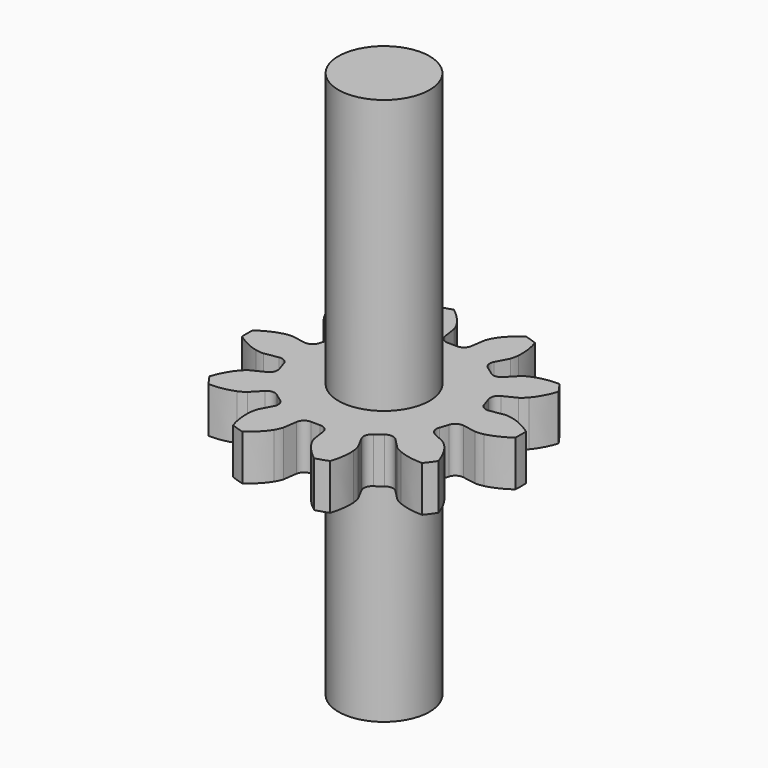
from build123d import *

# Parameters (mm, degrees)
PAD_DEPTH    = 5
SKETCH001_R  = 5
POCKET_DEPTH = 5.001
SKETCH004_R  = 5
PAD004_DEPTH = 30


with BuildPart() as part:
    # InvoluteGear → Pad (new body)
    with BuildSketch(Plane.XY):
        with BuildLine():
            Line((10.118289, -1.757547), (11.611639, -2.014738))
            add(Edge.make_bspline(
                [(11.611639, -2.014738), (11.711845, -2.023895), (12.012347, -2.035437), (12.520038, -1.918498)],
                knots=[0, 0, 0, 0, 1, 1, 1, 1], degree=3))
            add(Edge.make_bspline(
                [(12.520038, -1.918498), (13.122813, -1.775221), (13.976836, -1.451488), (14.985932, -0.73261)],
                knots=[0, 0, 0, 0, 1, 1, 1, 1], degree=3))
            ThreePointArc((14.985932, -0.73261), (15.003833, 0), (14.985932, 0.73261))
            add(Edge.make_bspline(
                [(14.985932, 0.73261), (13.976836, 1.451488), (13.122813, 1.775221), (12.520038, 1.918498)],
                knots=[0, 0, 0, 0, 1, 1, 1, 1], degree=3))
            add(Edge.make_bspline(
                [(12.520038, 1.918498), (12.012347, 2.035437), (11.711845, 2.023895), (11.611639, 2.014738)],
                knots=[0, 0, 0, 0, 1, 1, 1, 1], degree=3))
            Line((11.611639, 2.014738), (10.118289, 1.757547))
            ThreePointArc((10.118289, 1.757547), (9.455083, 1.889924), (9.053502, 2.434075))
            ThreePointArc((9.053502, 2.434075), (8.916155, 2.897034), (8.755151, 3.352307))
            ThreePointArc((8.755151, 3.352307), (8.760192, 4.028577), (9.218928, 4.525496))
            Line((9.218928, 4.525496), (10.578247, 5.195193))
            add(Edge.make_bspline(
                [(10.578247, 5.195193), (10.664697, 5.246684), (10.914593, 5.413978), (11.256588, 5.806997)],
                knots=[0, 0, 0, 0, 1, 1, 1, 1], degree=3))
            add(Edge.make_bspline(
                [(11.256588, 5.806997), (11.660028, 6.277212), (12.160661, 7.041099), (12.554491, 8.215816)],
                knots=[0, 0, 0, 0, 1, 1, 1, 1], degree=3))
            ThreePointArc((12.554491, 8.215816), (12.138356, 8.819032), (11.693256, 9.401204))
            add(Edge.make_bspline(
                [(11.693256, 9.401204), (10.454334, 9.389657), (9.57313, 9.14958), (9.001259, 8.911191)],
                knots=[0, 0, 0, 0, 1, 1, 1, 1], degree=3))
            add(Edge.make_bspline(
                [(9.001259, 8.911191), (8.521793, 8.707384), (8.285466, 8.521415), (8.209781, 8.455107)],
                knots=[0, 0, 0, 0, 1, 1, 1, 1], degree=3))
            Line((8.209781, 8.455107), (7.152808, 7.369267))
            ThreePointArc((7.152808, 7.369267), (6.538453, 7.086539), (5.893724, 7.290723))
            ThreePointArc((5.893724, 7.290723), (5.510487, 7.584534), (5.112629, 7.858222))
            ThreePointArc((5.112629, 7.858222), (4.719206, 8.408299), (4.79825, 9.079953))
            Line((4.79825, 9.079953), (5.504323, 10.420737))
            add(Edge.make_bspline(
                [(5.504323, 10.420737), (5.543998, 10.513208), (5.647835, 10.795437), (5.693504, 11.314416)],
                knots=[0, 0, 0, 0, 1, 1, 1, 1], degree=3))
            add(Edge.make_bspline(
                [(5.693504, 11.314416), (5.743508, 11.931963), (5.699527, 12.844226), (5.327661, 14.026079)],
                knots=[0, 0, 0, 0, 1, 1, 1, 1], degree=3))
            ThreePointArc((5.327661, 14.026079), (4.636439, 14.269493), (3.934154, 14.478857))
            add(Edge.make_bspline(
                [(3.934154, 14.478857), (2.938633, 13.741295), (2.366837, 13.02911), (2.044305, 12.500112)],
                knots=[0, 0, 0, 0, 1, 1, 1, 1], degree=3))
            add(Edge.make_bspline(
                [(2.044305, 12.500112), (1.776204, 12.053406), (1.694321, 11.764044), (1.672065, 11.665914)],
                knots=[0, 0, 0, 0, 1, 1, 1, 1], degree=3))
            Line((1.672065, 11.665914), (1.455197, 10.166177))
            ThreePointArc((1.455197, 10.166177), (1.124356, 9.576337), (0.482743, 9.362563))
            ThreePointArc((0.482743, 9.362563), (0, 9.375), (-0.482743, 9.362563))
            ThreePointArc((-0.482743, 9.362563), (-1.124356, 9.576337), (-1.455197, 10.166177))
            Line((-1.455197, 10.166177), (-1.672065, 11.665914))
            add(Edge.make_bspline(
                [(-1.672065, 11.665914), (-1.694321, 11.764044), (-1.776204, 12.053406), (-2.044305, 12.500112)],
                knots=[0, 0, 0, 0, 1, 1, 1, 1], degree=3))
            add(Edge.make_bspline(
                [(-2.044305, 12.500112), (-2.366837, 13.02911), (-2.938633, 13.741295), (-3.934154, 14.478857)],
                knots=[0, 0, 0, 0, 1, 1, 1, 1], degree=3))
            ThreePointArc((-3.934154, 14.478857), (-4.636439, 14.269493), (-5.327661, 14.026079))
            add(Edge.make_bspline(
                [(-5.327661, 14.026079), (-5.699527, 12.844226), (-5.743508, 11.931963), (-5.693504, 11.314416)],
                knots=[0, 0, 0, 0, 1, 1, 1, 1], degree=3))
            add(Edge.make_bspline(
                [(-5.693504, 11.314416), (-5.647835, 10.795437), (-5.543998, 10.513208), (-5.504323, 10.420737)],
                knots=[0, 0, 0, 0, 1, 1, 1, 1], degree=3))
            Line((-5.504323, 10.420737), (-4.79825, 9.079953))
            ThreePointArc((-4.79825, 9.079953), (-4.719206, 8.408299), (-5.112629, 7.858222))
            ThreePointArc((-5.112629, 7.858222), (-5.510487, 7.584534), (-5.893724, 7.290723))
            ThreePointArc((-5.893724, 7.290723), (-6.538453, 7.086539), (-7.152808, 7.369267))
            Line((-7.152808, 7.369267), (-8.209781, 8.455107))
            add(Edge.make_bspline(
                [(-8.209781, 8.455107), (-8.285466, 8.521415), (-8.521793, 8.707384), (-9.001259, 8.911191)],
                knots=[0, 0, 0, 0, 1, 1, 1, 1], degree=3))
            add(Edge.make_bspline(
                [(-9.001259, 8.911191), (-9.57313, 9.14958), (-10.454334, 9.389657), (-11.693256, 9.401204)],
                knots=[0, 0, 0, 0, 1, 1, 1, 1], degree=3))
            ThreePointArc((-11.693256, 9.401204), (-12.138356, 8.819032), (-12.554491, 8.215816))
            add(Edge.make_bspline(
                [(-12.554491, 8.215816), (-12.160661, 7.041099), (-11.660028, 6.277212), (-11.256588, 5.806997)],
                knots=[0, 0, 0, 0, 1, 1, 1, 1], degree=3))
            add(Edge.make_bspline(
                [(-11.256588, 5.806997), (-10.914593, 5.413978), (-10.664697, 5.246684), (-10.578247, 5.195193)],
                knots=[0, 0, 0, 0, 1, 1, 1, 1], degree=3))
            Line((-10.578247, 5.195193), (-9.218928, 4.525496))
            ThreePointArc((-9.218928, 4.525496), (-8.760192, 4.028577), (-8.755151, 3.352307))
            ThreePointArc((-8.755151, 3.352307), (-8.916155, 2.897034), (-9.053502, 2.434075))
            ThreePointArc((-9.053502, 2.434075), (-9.455083, 1.889924), (-10.118289, 1.757547))
            Line((-10.118289, 1.757547), (-11.611639, 2.014738))
            add(Edge.make_bspline(
                [(-11.611639, 2.014738), (-11.711845, 2.023895), (-12.012347, 2.035437), (-12.520038, 1.918498)],
                knots=[0, 0, 0, 0, 1, 1, 1, 1], degree=3))
            add(Edge.make_bspline(
                [(-12.520038, 1.918498), (-13.122813, 1.775221), (-13.976836, 1.451488), (-14.985932, 0.73261)],
                knots=[0, 0, 0, 0, 1, 1, 1, 1], degree=3))
            ThreePointArc((-14.985932, 0.73261), (-15.003833, 0), (-14.985932, -0.73261))
            add(Edge.make_bspline(
                [(-14.985932, -0.73261), (-13.976836, -1.451488), (-13.122813, -1.775221), (-12.520038, -1.918498)],
                knots=[0, 0, 0, 0, 1, 1, 1, 1], degree=3))
            add(Edge.make_bspline(
                [(-12.520038, -1.918498), (-12.012347, -2.035437), (-11.711845, -2.023895), (-11.611639, -2.014738)],
                knots=[0, 0, 0, 0, 1, 1, 1, 1], degree=3))
            Line((-11.611639, -2.014738), (-10.118289, -1.757547))
            ThreePointArc((-10.118289, -1.757547), (-9.455083, -1.889924), (-9.053502, -2.434075))
            ThreePointArc((-9.053502, -2.434075), (-8.916155, -2.897034), (-8.755151, -3.352307))
            ThreePointArc((-8.755151, -3.352307), (-8.760192, -4.028577), (-9.218928, -4.525496))
            Line((-9.218928, -4.525496), (-10.578247, -5.195193))
            add(Edge.make_bspline(
                [(-10.578247, -5.195193), (-10.664697, -5.246684), (-10.914593, -5.413978), (-11.256588, -5.806997)],
                knots=[0, 0, 0, 0, 1, 1, 1, 1], degree=3))
            add(Edge.make_bspline(
                [(-11.256588, -5.806997), (-11.660028, -6.277212), (-12.160661, -7.041099), (-12.554491, -8.215816)],
                knots=[0, 0, 0, 0, 1, 1, 1, 1], degree=3))
            ThreePointArc((-12.554491, -8.215816), (-12.138356, -8.819032), (-11.693256, -9.401204))
            add(Edge.make_bspline(
                [(-11.693256, -9.401204), (-10.454334, -9.389657), (-9.57313, -9.14958), (-9.001259, -8.911191)],
                knots=[0, 0, 0, 0, 1, 1, 1, 1], degree=3))
            add(Edge.make_bspline(
                [(-9.001259, -8.911191), (-8.521793, -8.707384), (-8.285466, -8.521415), (-8.209781, -8.455107)],
                knots=[0, 0, 0, 0, 1, 1, 1, 1], degree=3))
            Line((-8.209781, -8.455107), (-7.152808, -7.369267))
            ThreePointArc((-7.152808, -7.369267), (-6.538453, -7.086539), (-5.893724, -7.290723))
            ThreePointArc((-5.893724, -7.290723), (-5.510487, -7.584534), (-5.112629, -7.858222))
            ThreePointArc((-5.112629, -7.858222), (-4.719206, -8.408299), (-4.79825, -9.079953))
            Line((-4.79825, -9.079953), (-5.504323, -10.420737))
            add(Edge.make_bspline(
                [(-5.504323, -10.420737), (-5.543998, -10.513208), (-5.647835, -10.795437), (-5.693504, -11.314416)],
                knots=[0, 0, 0, 0, 1, 1, 1, 1], degree=3))
            add(Edge.make_bspline(
                [(-5.693504, -11.314416), (-5.743508, -11.931963), (-5.699527, -12.844226), (-5.327661, -14.026079)],
                knots=[0, 0, 0, 0, 1, 1, 1, 1], degree=3))
            ThreePointArc((-5.327661, -14.026079), (-4.636439, -14.269493), (-3.934154, -14.478857))
            add(Edge.make_bspline(
                [(-3.934154, -14.478857), (-2.938633, -13.741295), (-2.366837, -13.02911), (-2.044305, -12.500112)],
                knots=[0, 0, 0, 0, 1, 1, 1, 1], degree=3))
            add(Edge.make_bspline(
                [(-2.044305, -12.500112), (-1.776204, -12.053406), (-1.694321, -11.764044), (-1.672065, -11.665914)],
                knots=[0, 0, 0, 0, 1, 1, 1, 1], degree=3))
            Line((-1.672065, -11.665914), (-1.455197, -10.166177))
            ThreePointArc((-1.455197, -10.166177), (-1.124356, -9.576337), (-0.482743, -9.362563))
            ThreePointArc((-0.482743, -9.362563), (0, -9.375), (0.482743, -9.362563))
            ThreePointArc((0.482743, -9.362563), (1.124356, -9.576337), (1.455197, -10.166177))
            Line((1.455197, -10.166177), (1.672065, -11.665914))
            add(Edge.make_bspline(
                [(1.672065, -11.665914), (1.694321, -11.764044), (1.776204, -12.053406), (2.044305, -12.500112)],
                knots=[0, 0, 0, 0, 1, 1, 1, 1], degree=3))
            add(Edge.make_bspline(
                [(2.044305, -12.500112), (2.366837, -13.02911), (2.938633, -13.741295), (3.934154, -14.478857)],
                knots=[0, 0, 0, 0, 1, 1, 1, 1], degree=3))
            ThreePointArc((3.934154, -14.478857), (4.636439, -14.269493), (5.327661, -14.026079))
            add(Edge.make_bspline(
                [(5.327661, -14.026079), (5.699527, -12.844226), (5.743508, -11.931963), (5.693504, -11.314416)],
                knots=[0, 0, 0, 0, 1, 1, 1, 1], degree=3))
            add(Edge.make_bspline(
                [(5.693504, -11.314416), (5.647835, -10.795437), (5.543998, -10.513208), (5.504323, -10.420737)],
                knots=[0, 0, 0, 0, 1, 1, 1, 1], degree=3))
            Line((5.504323, -10.420737), (4.79825, -9.079953))
            ThreePointArc((4.79825, -9.079953), (4.719206, -8.408299), (5.112629, -7.858222))
            ThreePointArc((5.112629, -7.858222), (5.510487, -7.584534), (5.893724, -7.290723))
            ThreePointArc((5.893724, -7.290723), (6.538453, -7.086539), (7.152808, -7.369267))
            Line((7.152808, -7.369267), (8.209781, -8.455107))
            add(Edge.make_bspline(
                [(8.209781, -8.455107), (8.285466, -8.521415), (8.521793, -8.707384), (9.001259, -8.911191)],
                knots=[0, 0, 0, 0, 1, 1, 1, 1], degree=3))
            add(Edge.make_bspline(
                [(9.001259, -8.911191), (9.57313, -9.14958), (10.454334, -9.389657), (11.693256, -9.401204)],
                knots=[0, 0, 0, 0, 1, 1, 1, 1], degree=3))
            ThreePointArc((11.693256, -9.401204), (12.138356, -8.819032), (12.554491, -8.215816))
            add(Edge.make_bspline(
                [(12.554491, -8.215816), (12.160661, -7.041099), (11.660028, -6.277212), (11.256588, -5.806997)],
                knots=[0, 0, 0, 0, 1, 1, 1, 1], degree=3))
            add(Edge.make_bspline(
                [(11.256588, -5.806997), (10.914593, -5.413978), (10.664697, -5.246684), (10.578247, -5.195193)],
                knots=[0, 0, 0, 0, 1, 1, 1, 1], degree=3))
            Line((10.578247, -5.195193), (9.218928, -4.525496))
            ThreePointArc((9.218928, -4.525496), (8.760192, -4.028577), (8.755151, -3.352307))
            ThreePointArc((8.755151, -3.352307), (8.916155, -2.897034), (9.053502, -2.434075))
            ThreePointArc((9.053502, -2.434075), (9.455083, -1.889924), (10.118289, -1.757547))
        make_face()
    extrude(amount=PAD_DEPTH)

    # Sketch001 (on Face102 of Pad) → Pocket (cut, through all)
    with BuildSketch(Plane.XY.offset(5)):
        Circle(SKETCH001_R)
    extrude(amount=-POCKET_DEPTH, mode=Mode.SUBTRACT)

    # Sketch004 (on Face5 of Pocket) → Pad004 (join, symmetric)
    with BuildSketch(Plane.XY.offset(5)):
        Circle(SKETCH004_R)
    extrude(amount=PAD004_DEPTH, both=True)


solid = part.part
